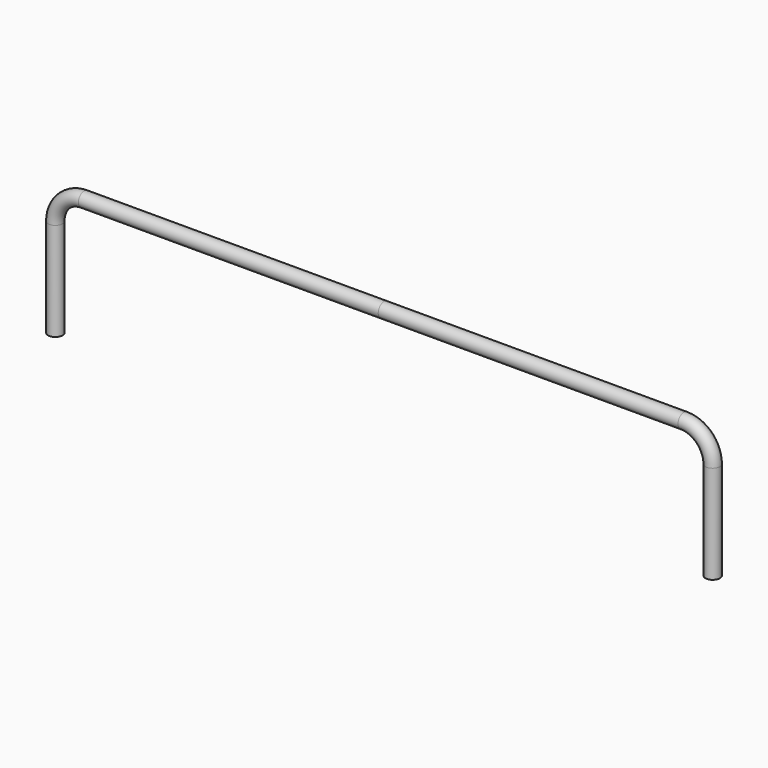
from build123d import *

# Parameters (mm, degrees)
F1_R = 0.5


with BuildPart() as f2:
    # F2: sweep along a path in F0
    with BuildLine(Plane.XZ) as f2_path:
        Line((0, 0), (20.75, 0))
        ThreePointArc((20.75, 0), (22.164214, -0.585786), (22.75, -2))
        Line((22.75, -2), (22.75, -8.799794))
    # F1 (on Right) → F2 (sweep)
    with BuildSketch(Plane.YZ):
        Circle(F1_R)
    sweep(path=f2_path.line)

    # F3: F2 across face


with BuildPart() as f2_1:
    add(f2.part)
    add(f2.part.mirror(Plane(origin=(0, 0, 0), x_dir=(0, -1, 0), z_dir=(-1, 0, 0))))


solid = f2_1.part
